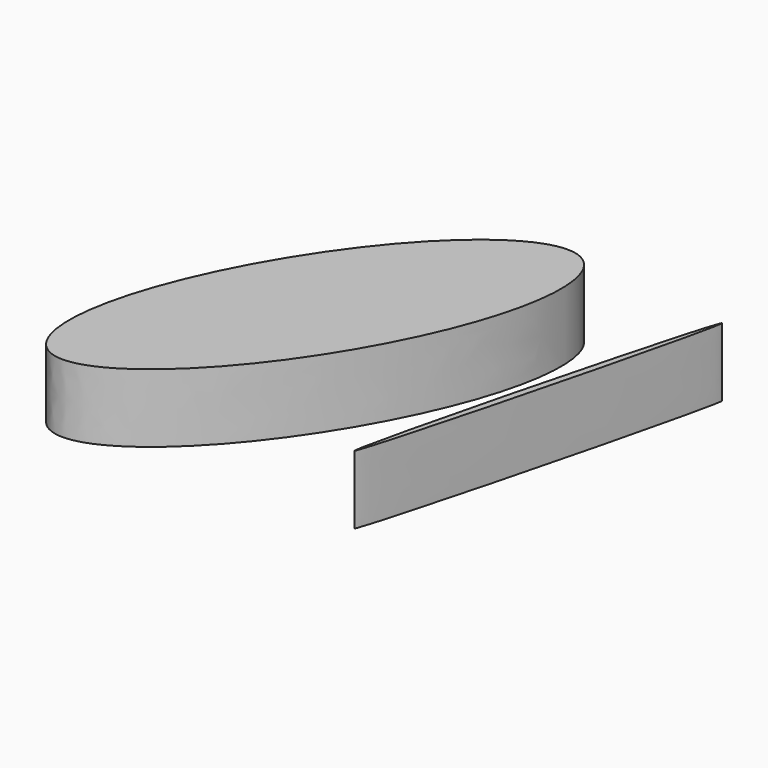
from build123d import *

# Parameters (mm, degrees)
F1_DEPTH = 17.830562


with BuildPart() as f1:
    # F0 (on Top) → F1 (new body)
    with BuildSketch(Plane.XY):
        with BuildLine():
            add(Edge.make_bspline(
                [(-10.248899, 49.847327), (-42.030926, 68.70278), (-70.499604, -15.495937), (-98.968282, -99.694654), (-38.717578, -34.35139), (21.533127, 30.991875), (-10.248899, 49.847327)],
                knots=[0, 0, 0, 2.094395, 2.094395, 4.18879, 4.18879, 6.283185, 6.283185, 6.283185], degree=2, weights=[1, 0.5, 1, 0.5, 1, 0.5, 1]))
        make_face()
        with BuildLine():
            add(Edge.make_bspline(
                [(6.749902, -45.286648), (8.277877, -45.678687), (24.942979, 22.447304), (41.60808, 90.573296), (23.415003, 22.839344), (5.221926, -44.894609), (6.749902, -45.286648)],
                knots=[0, 0, 0, 2.094395, 2.094395, 4.18879, 4.18879, 6.283185, 6.283185, 6.283185], degree=2, weights=[1, 0.5, 1, 0.5, 1, 0.5, 1]))
        make_face()
    extrude(amount=F1_DEPTH)


solid = f1.part
